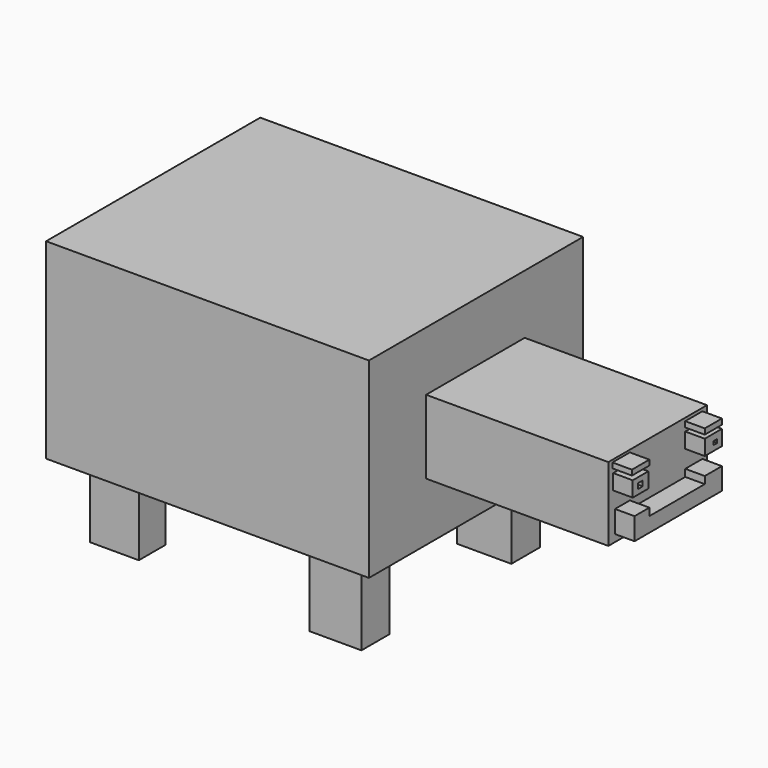
from build123d import *

# Parameters (mm, degrees)
F0_W      = 99.1851314902
F0_H      = 82.2389237583
F1_DEPTH  = 58.8
F2_W      = 37.8797464073
F2_H      = 22.678008303
F3_DEPTH  = 53
F4_W      = 14.9525329471
F4_H      = 10.2175623178
F5_DEPTH  = 23.2
F6_W      = 15.9493666142
F6_H      = 10.7159819454
F6_W_2    = 16.6969913989
F6_H_2    = 10.9651889652
F6_W_3    = 14.9525329471
F6_H_3    = 12.4604459852
F7_DEPTH  = 25
F8_W      = 37.8797464073
F8_H      = 22.678008303
F9_DEPTH  = 3
F10_W     = 5.9913191944
F10_H     = 4.6931989491
F10_W_2   = 1.7973957583
F10_H_2   = 1.597687602
F10_W_3   = 6.5904529765
F10_W_4   = 1.497827936
F10_H_3   = 1.0984092951
F10_W_5   = 5.6917527691
F10_H_4   = 2.2966712713
F10_H_5   = 4.4934898615
F10_W_6   = 21.2691789493
F10_H_6   = 2.1968167275
F10_W_7   = 6.690306589
F10_H_7   = 1.5976838768
F10_H_8   = 1.6975402832
F11_DEPTH = 6
F12_W     = 12.4604427256
F12_H     = 7.2270575911
F13_DEPTH = 25


with BuildPart() as f1:
    # F0 (on Top) → F1 (new body)
    with BuildSketch(Plane.XY):
        with Locations((0.4984177649, 2.741297707)):
            Rectangle(F0_W, F0_H)
    extrude(amount=F1_DEPTH)

    # F2 (on face) → F3 (join)
    with BuildSketch(Plane.YZ.offset(50.09098351)):
        with Locations((2.4920888245, 29.2820418254)):
            Rectangle(F2_W, F2_H)
    extrude(amount=F3_DEPTH)

    # F4 (on face) → F5 (join)
    with BuildSketch(Plane(origin=(0, 0, 0), x_dir=(1, 0, 0), z_dir=(0, 0, -1))):
        with Locations((-34.0518206358, 25.7931184024)):
            Rectangle(F4_W, F4_H)
    extrude(amount=F5_DEPTH)

    # F6 (on face) → F7 (join)
    with BuildSketch(Plane(origin=(0, 0, 0), x_dir=(1, 0, 0), z_dir=(0, 0, -1))):
        with Locations((34.2314103618, 26.0423282161)):
            Rectangle(F6_W, F6_H)
        with Locations((33.8575979695, -31.64952714)):
            Rectangle(F6_W_2, F6_H_2)
        with Locations((-34.0518206358, -31.64952714)):
            Rectangle(F6_W_3, F6_H_3)
    extrude(amount=F7_DEPTH)

    # F8 (on face) → F9 (join)
    with BuildSketch(Plane.YZ.offset(103.09098351)):
        with Locations((2.4920888245, 29.2820418254)):
            Rectangle(F8_W, F8_H)
    extrude(amount=F9_DEPTH)

    # F10 (on face) → F11 (join)
    with BuildSketch(Plane.YZ.offset(106.09098351)):
        with Locations((-11.5880584344, 34.5423240215)):
            Rectangle(F10_W, F10_H)
        with Locations((-11.6879125126, 34.4923958182)):
            Rectangle(F10_W_2, F10_H_2, mode=Mode.SUBTRACT)
        with Locations((16.3714285009, 34.5423240215)):
            Rectangle(F10_W_3, F10_H)
        with Locations((17.1203424688, 34.3426130712)):
            Rectangle(F10_W_4, F10_H_3, mode=Mode.SUBTRACT)
        with Locations((-11.0388533212, 25.7550571114)):
            Rectangle(F10_W_5, F10_H_4)
        with Locations((-11.0388533212, 22.359976545)):
            Rectangle(F10_W_5, F10_H_5)
        with Locations((2.441612538, 22.359976545)):
            Rectangle(F10_W_6, F10_H_5)
        with Locations((16.3714285009, 25.7051298395)):
            Rectangle(F10_W_3, F10_H_6)
        with Locations((16.3714285009, 22.359976545)):
            Rectangle(F10_W_3, F10_H_5)
        with Locations((-11.5381302312, 39.0857402235)):
            Rectangle(F10_W_7, F10_H_7)
        with Locations((16.3714285009, 38.8361029327)):
            Rectangle(F10_W_3, F10_H_8)
    extrude(amount=F11_DEPTH)

    # F12 (on face) → F13 (join)
    with BuildSketch(Plane(origin=(-49.0941479802, 0, 0), x_dir=(0, -1, 0), z_dir=(-1, 0, 0))):
        with Locations((-0.7476268802, 11.8374209851)):
            Rectangle(F12_W, F12_H)
    extrude(amount=F13_DEPTH)


solid = f1.part
